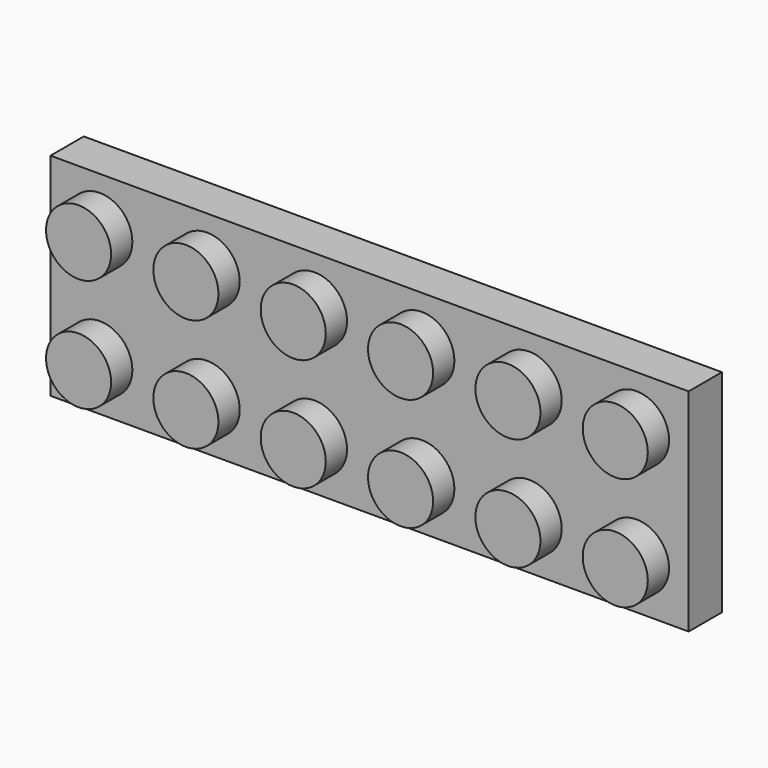
from build123d import *

# Parameters (mm, degrees)
F0_W     = 47.56
F0_H     = 15.76
F1_DEPTH = 3.1
F2_R     = 2.425
F3_DEPTH = 1.98


with BuildPart() as f1:
    # F0 (on Front) → F1 (new body)
    with BuildSketch(Plane.XZ):
        with Locations((-18.644534, 23.67975)):
            Rectangle(F0_W, F0_H)
    extrude(amount=F1_DEPTH)

    # F2 (on face) → F3 (join)
    with BuildSketch(Plane.XZ.offset(3.1)):
        with Locations((-38.749534, 19.47475)):
            Circle(F2_R)
        with Locations((-38.749534, 27.88475)):
            Circle(F2_R)
        with Locations((-30.749534, 27.88475)):
            Circle(F2_R)
        with Locations((-30.749534, 19.47475)):
            Circle(F2_R)
        with Locations((-22.749534, 27.88475)):
            Circle(F2_R)
        with Locations((-22.749534, 19.47475)):
            Circle(F2_R)
        with Locations((-14.749534, 19.47475)):
            Circle(F2_R)
        with Locations((-6.749534, 19.47475)):
            Circle(F2_R)
        with Locations((1.250466, 19.47475)):
            Circle(F2_R)
        with Locations((-14.749534, 27.88475)):
            Circle(F2_R)
        with Locations((-6.749534, 27.88475)):
            Circle(F2_R)
        with Locations((1.250466, 27.88475)):
            Circle(F2_R)
    extrude(amount=F3_DEPTH)


solid = f1.part
